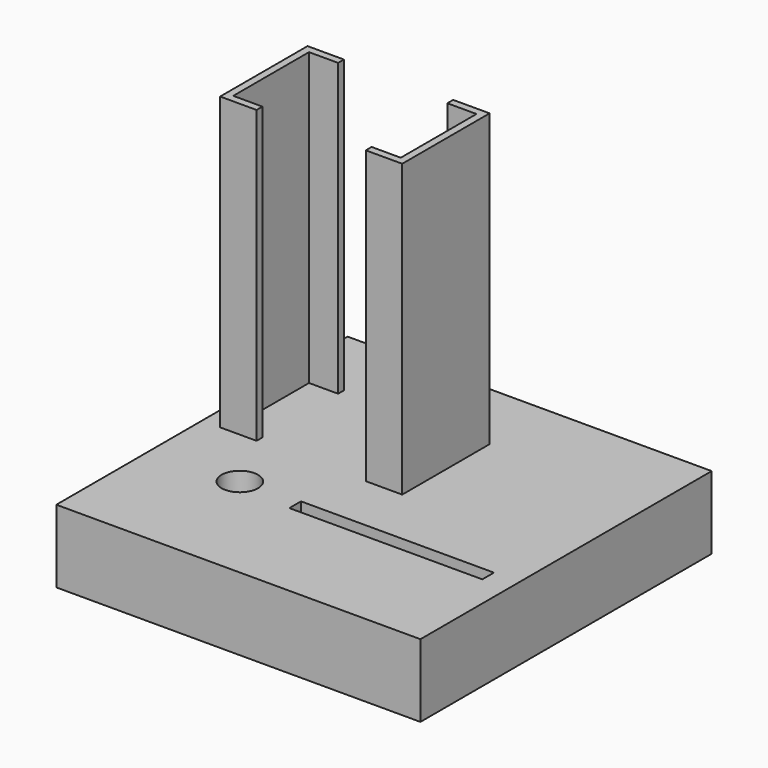
from build123d import *

# Parameters (mm, degrees)
BOX_W          = 100
BOX_H          = 100
BOX_DEPTH      = 20
CYLINDER_R     = 5
CYLINDER_DEPTH = 15
BOX001_W       = 50
BOX001_H       = 30
BOX001_DEPTH   = 80
BOX002_W       = 46
BOX002_H       = 26
BOX002_DEPTH   = 80
BOX003_W       = 30
BOX003_H       = 30
BOX003_DEPTH   = 80
BOX004_W       = 53
BOX004_H       = 4
BOX004_DEPTH   = 15


with BuildPart() as part:
    # Box → Box (join)
    with BuildSketch(Plane.XY):
        with Locations((50, 50)):
            Rectangle(BOX_W, BOX_H)
    extrude(amount=BOX_DEPTH)

    # Cylinder → Cylinder (cut)
    with BuildSketch(Plane(origin=(24, 33, 5), x_dir=(1, 0, 0), z_dir=(0, 0, 1))):
        Circle(CYLINDER_R)
    extrude(amount=CYLINDER_DEPTH, mode=Mode.SUBTRACT)

    # Box001 → Box001 (join)
    with BuildSketch(Plane(origin=(5, 50, 20), x_dir=(1, 0, 0), z_dir=(0, 0, 1))):
        with Locations((25, 15)):
            Rectangle(BOX001_W, BOX001_H)
    extrude(amount=BOX001_DEPTH)

    # Box002 → Box002 (cut)
    with BuildSketch(Plane(origin=(7, 52, 20), x_dir=(1, 0, 0), z_dir=(0, 0, 1))):
        with Locations((23, 13)):
            Rectangle(BOX002_W, BOX002_H)
    extrude(amount=BOX002_DEPTH, mode=Mode.SUBTRACT)

    # Box003 → Box003 (cut)
    with BuildSketch(Plane(origin=(15, 50, 20), x_dir=(1, 0, 0), z_dir=(0, 0, 1))):
        with Locations((15, 15)):
            Rectangle(BOX003_W, BOX003_H)
    extrude(amount=BOX003_DEPTH, mode=Mode.SUBTRACT)

    # Box004 → Box004 (cut)
    with BuildSketch(Plane(origin=(40, 30, 5), x_dir=(1, 0, 0), z_dir=(0, 0, 1))):
        with Locations((26.5, 2)):
            Rectangle(BOX004_W, BOX004_H)
    extrude(amount=BOX004_DEPTH, mode=Mode.SUBTRACT)


solid = part.part
